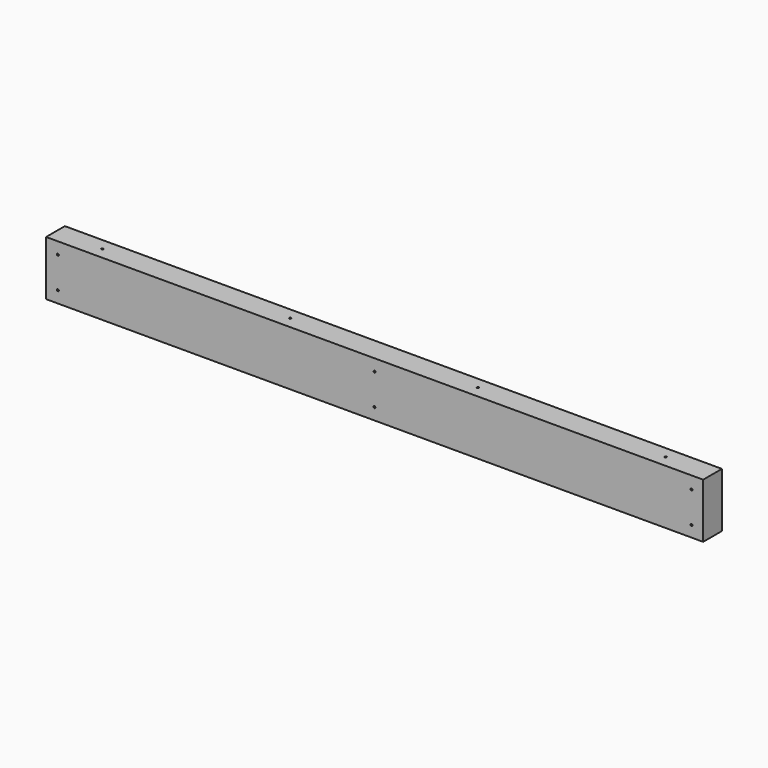
from build123d import *

# Parameters (mm, degrees)
F0_W     = 1066.8
F0_H     = 88.9
F1_DEPTH = 38.1
F2_R     = 1.5875
F3_DEPTH = 25.4
F4_R     = 1.5875
F5_DEPTH = 38.101
F6_R     = 1.5875
F7_DEPTH = 38.101


with BuildPart() as f1:
    # F0 (on Front) → F1 (new body)
    with BuildSketch(Plane.XZ):
        with Locations((533.4, -44.45)):
            Rectangle(F0_W, F0_H)
    extrude(amount=F1_DEPTH)

    # F2 (on Top) → F3 (cut)
    with BuildSketch(Plane.XY):
        with Locations((76.2, -19.05)):
            Circle(F2_R)
        with Locations((381, -19.05)):
            Circle(F2_R)
        with Locations((685.8, -19.05)):
            Circle(F2_R)
        with Locations((990.6, -19.05)):
            Circle(F2_R)
    extrude(amount=-F3_DEPTH, mode=Mode.SUBTRACT)

    # F4 (on Front) → F5 (cut, through all)
    with BuildSketch(Plane.XZ):
        with Locations((19.05, -19.05)):
            Circle(F4_R)
        with Locations((19.05, -69.85)):
            Circle(F4_R)
        with Locations((1047.749457, -20.106973)):
            Circle(F4_R)
        with Locations((1047.749457, -70.906973)):
            Circle(F4_R)
    extrude(amount=F5_DEPTH, mode=Mode.SUBTRACT)

    # F6 (on Front) → F7 (cut, through all)
    with BuildSketch(Plane.XZ):
        with Locations((533.4, -19.05)):
            Circle(F6_R)
        with Locations((532.976681, -69.848236)):
            Circle(F6_R)
    extrude(amount=F7_DEPTH, mode=Mode.SUBTRACT)


solid = f1.part
